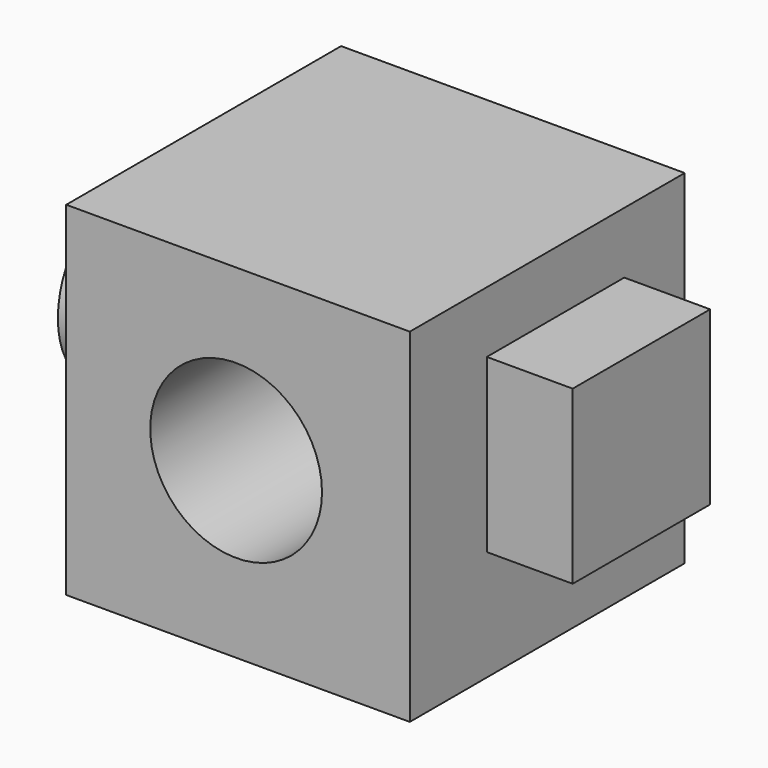
from build123d import *

# Parameters (mm, degrees)
F0_W     = 50.8
F0_H     = 50.8
F1_DEPTH = 50.8
F2_R     = 12.7
F3_DEPTH = 50.8
F4_R     = 12.7
F5_DEPTH = 12.7
F6_W     = 25.4
F6_H     = 25.4
F7_DEPTH = 12.7


with BuildPart() as f1:
    # F0 (on Front) → F1 (new body)
    with BuildSketch(Plane.XZ):
        with Locations((-25.4, 25.4)):
            Rectangle(F0_W, F0_H)
    extrude(amount=F1_DEPTH)

    # F2 (on face) → F3 (cut)
    with BuildSketch(Plane.XZ.offset(50.8)):
        with Locations((-25.683401, 25.683401)):
            Circle(F2_R)
    extrude(amount=-F3_DEPTH, mode=Mode.SUBTRACT)

    # F4 (on face) → F5 (join)
    with BuildSketch(Plane(origin=(-50.8, 0, 0), x_dir=(0, -1, 0), z_dir=(-1, 0, 0))):
        with Locations((23.773853, 26.06531)):
            Circle(F4_R)
    extrude(amount=F5_DEPTH)

    # F6 (on face) → F7 (join)
    with BuildSketch(Plane.YZ):
        with Locations((-23.870847, 29.026623)):
            Rectangle(F6_W, F6_H)
    extrude(amount=F7_DEPTH)


solid = f1.part
